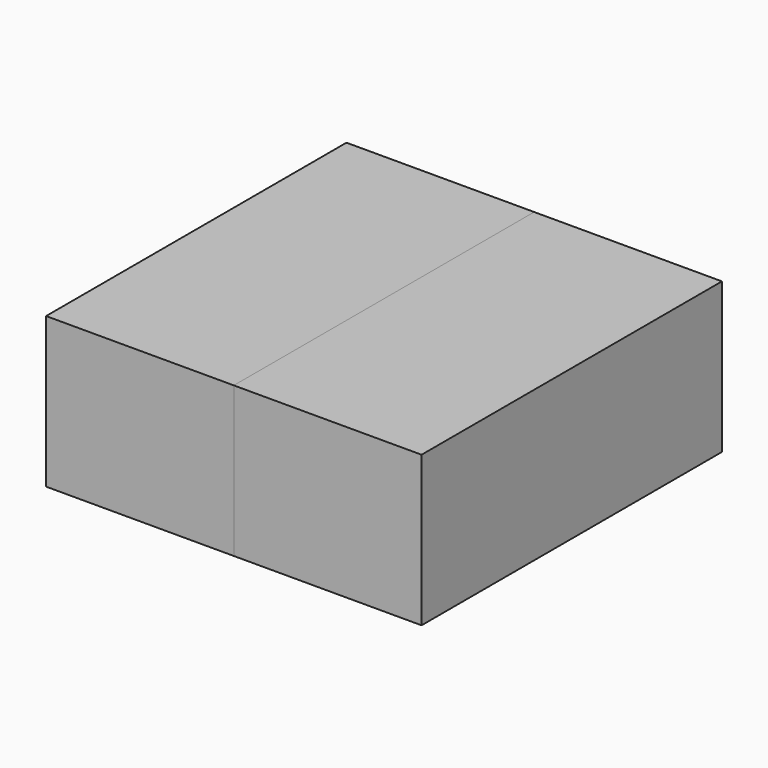
from build123d import *

# Parameters (mm, degrees)
F0_W     = 1524
F0_H     = 609.6
F1_DEPTH = 762


with BuildPart() as f1:
    # F0 (on Right) → F1 (new body)
    with BuildSketch(Plane.YZ):
        with Locations((762, 304.8)):
            Rectangle(F0_W, F0_H)
    extrude(amount=F1_DEPTH)


with BuildPart() as f2_1:
    # F2: instance of F1
    add(f1.part.mirror(Plane.YZ))


solid = Compound([f1.part, f2_1.part])
